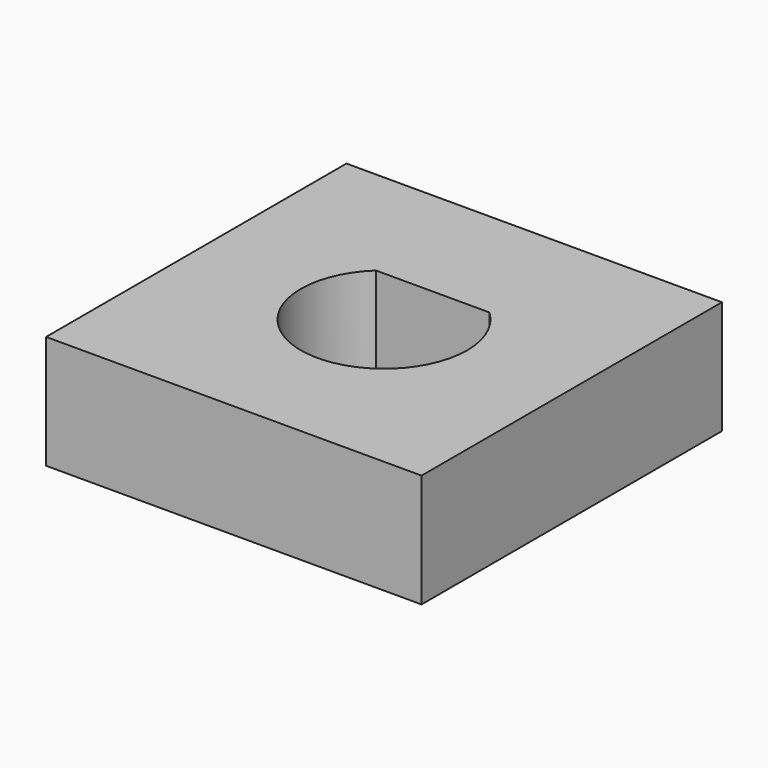
from build123d import *

# Parameters (mm, degrees)
F0_W     = 12.610062
F0_H     = 12.610062
F1_DEPTH = 3.81


with BuildPart() as f1:
    # F0 (on Top) → F1 (new body)
    with BuildSketch(Plane.XY):
        Rectangle(F0_W, F0_H)
        with BuildLine():
            ThreePointArc((1.905, 2.043872), (2.562129, 1.11442), (2.794, 0))
            ThreePointArc((2.794, 0), (2.562129, -1.11442), (1.905, -2.043872))
            ThreePointArc((1.905, -2.043872), (0, -2.794), (-1.905, -2.043872))
            ThreePointArc((-1.905, -2.043872), (-2.794, 0), (-1.905, 2.043872))
            ThreePointArc((-1.905, 2.043872), (0, 2.794), (1.905, 2.043872))
        make_face(mode=Mode.SUBTRACT)
        with BuildLine():
            Line((-1.905, 2.043872), (1.905, 2.043872))
            ThreePointArc((1.905, 2.043872), (0, 2.794), (-1.905, 2.043872))
        make_face()
    extrude(amount=F1_DEPTH)


solid = f1.part
